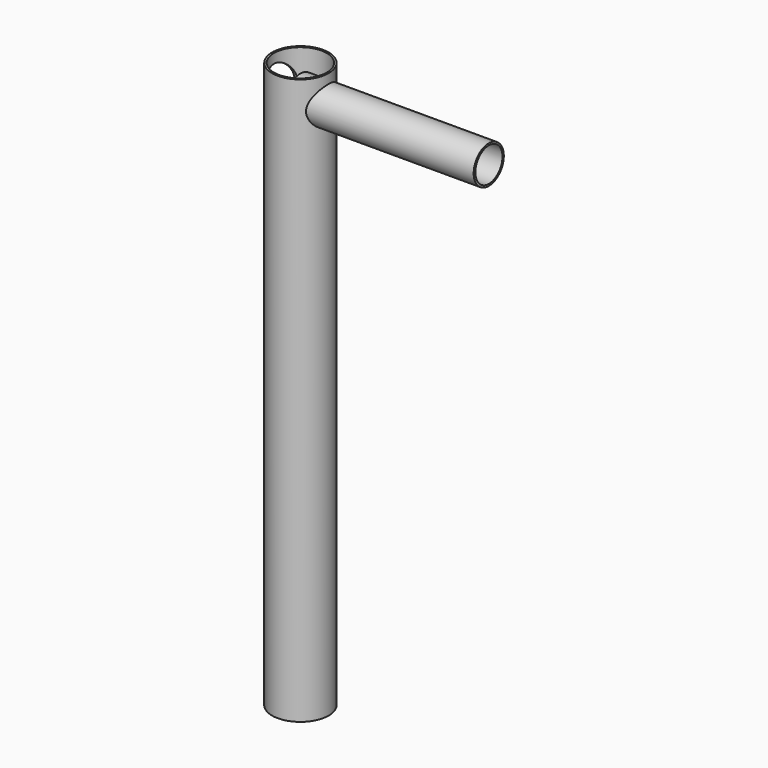
from build123d import *

# Parameters (mm, degrees)
F0_R     = 19.05
F1_DEPTH = 381
F2_R     = 17.78
F3_DEPTH = 381
F4_R     = 12.7
F5_DEPTH = 127
F6_R     = 11.43
F7_DEPTH = 127
F8_R     = 12.7
F9_DEPTH = 25.4


with BuildPart() as f1:
    # F0 (on Top) → F1 (new body)
    with BuildSketch(Plane.XY):
        Circle(F0_R)
    extrude(amount=F1_DEPTH)

    # F2 (on face) → F3 (cut)
    with BuildSketch(Plane.XY.offset(381)):
        Circle(F2_R)
    extrude(amount=-F3_DEPTH, mode=Mode.SUBTRACT)

    # F4 (on Right) → F5 (join)
    with BuildSketch(Plane.YZ):
        with Locations((-0.138039, 361.95)):
            Circle(F4_R)
    extrude(amount=F5_DEPTH)

    # F6 (on face) → F7 (cut)
    with BuildSketch(Plane.YZ.offset(127)):
        with Locations((0, 361.95)):
            Circle(F6_R)
    extrude(amount=-F7_DEPTH, mode=Mode.SUBTRACT)

    # F8 (on Right) → F9 (cut)
    with BuildSketch(Plane.YZ):
        with Locations((0.0001, 361.95)):
            Circle(F8_R)
    extrude(amount=-F9_DEPTH, mode=Mode.SUBTRACT)


solid = f1.part
